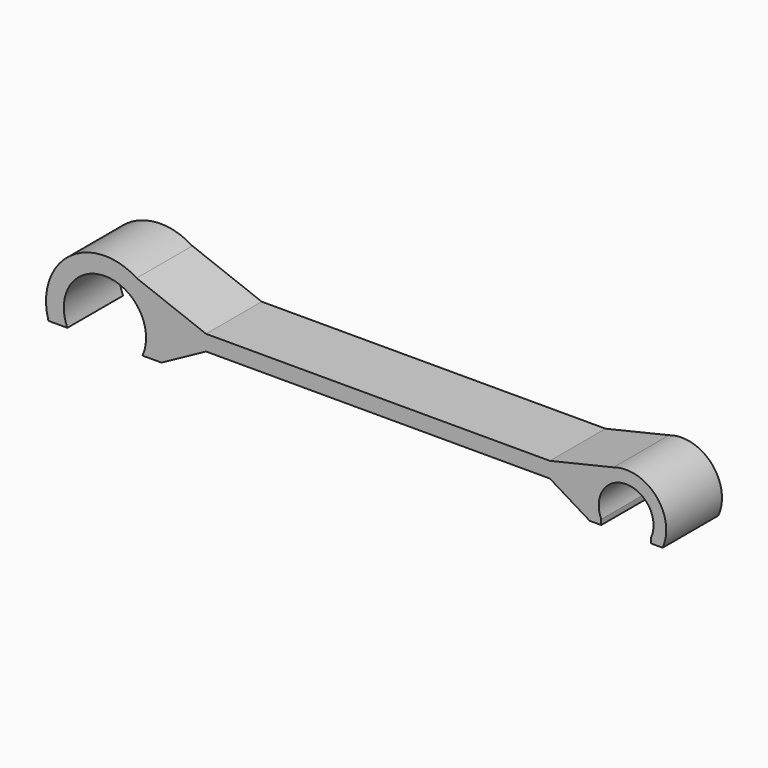
from build123d import *

# Parameters (mm, degrees)
F2_DEPTH = 25.4


with BuildPart() as f2:
    # F0 (on Front) → F2 (new body)
    with BuildSketch(Plane.XZ):
        with BuildLine():
            ThreePointArc((-9.082077, -4.185197), (0, 10), (9.082077, -4.185197))
            Line((9.082077, -4.185197), (13.305974, -6.09836))
            ThreePointArc((13.305974, -6.09836), (10.886601, 9.783703), (-4.647842, 13.879355))
            ThreePointArc((-4.647842, 13.879355), (-8.741019, 11.740252), (-11.963931, 8.432276))
            ThreePointArc((-11.963931, 8.432276), (-13.473338, 5.7191), (-14.376514, 2.748593))
            ThreePointArc((-14.376514, 2.748593), (-14.530904, -1.758337), (-13.305974, -6.09836))
            Line((-13.305974, -6.09836), (-9.082077, -4.185197))
        make_face()
        Polygon((13.305974, -6.09836), (9.082077, -4.185197), (9.082077, -6.09836), align=None)
        Polygon((-9.082077, -6.09836), (-9.082077, -4.185197), (-13.305974, -6.09836), align=None)
        with BuildLine():
            Line((-27.839648, 2.748593), (-13.305974, -6.09836))
            ThreePointArc((-13.305974, -6.09836), (-14.530904, -1.758337), (-14.376514, 2.748593))
            Line((-14.376514, 2.748593), (-27.839648, 2.748593))
        make_face()
        with BuildLine():
            ThreePointArc((-11.963931, 8.432276), (-8.741019, 11.740252), (-4.647842, 13.879355))
            Line((-4.647842, 13.879355), (-27.839648, 8.432276))
            Line((-27.839648, 8.432276), (-11.963931, 8.432276))
        make_face()
        with BuildLine():
            Line((-27.839648, 2.748593), (-14.376514, 2.748593))
            ThreePointArc((-14.376514, 2.748593), (-13.473338, 5.7191), (-11.963931, 8.432276))
            Line((-11.963931, 8.432276), (-27.839648, 8.432276))
            Line((-27.839648, 8.432276), (-153.244317, 8.432276))
            Line((-153.244317, 8.432276), (-170.335367, 8.432276))
            ThreePointArc((-170.335367, 8.432276), (-169.366146, 5.643698), (-168.788284, 2.748593))
            Line((-168.788284, 2.748593), (-153.244317, 2.748593))
            Line((-153.244317, 2.748593), (-27.839648, 2.748593))
        make_face()
        with BuildLine():
            Line((-169.495291, -6.09836), (-153.244317, 2.748593))
            Line((-153.244317, 2.748593), (-168.788284, 2.748593))
            ThreePointArc((-168.788284, 2.748593), (-168.68006, -1.711782), (-169.495291, -6.09836))
        make_face()
        with BuildLine():
            Line((-170.335367, 8.432276), (-153.244317, 8.432276))
            Line((-153.244317, 8.432276), (-178.522033, 18.102339))
            ThreePointArc((-178.522033, 18.102339), (-173.699781, 13.88441), (-170.335367, 8.432276))
        make_face()
        with BuildLine():
            ThreePointArc((-169.495291, -6.09836), (-168.68006, -1.711782), (-168.788284, 2.748593))
            ThreePointArc((-168.788284, 2.748593), (-169.366146, 5.643698), (-170.335367, 8.432276))
            ThreePointArc((-170.335367, 8.432276), (-173.699781, 13.88441), (-178.522033, 18.102339))
            ThreePointArc((-178.522033, 18.102339), (-203.01468, 17.174255), (-210.704709, -6.09836))
            Line((-210.704709, -6.09836), (-203.804379, -6.09836))
            ThreePointArc((-203.804379, -6.09836), (-190.1, 15), (-176.395621, -6.09836))
            Line((-176.395621, -6.09836), (-169.495291, -6.09836))
        make_face()
    extrude(amount=F2_DEPTH)


solid = f2.part
